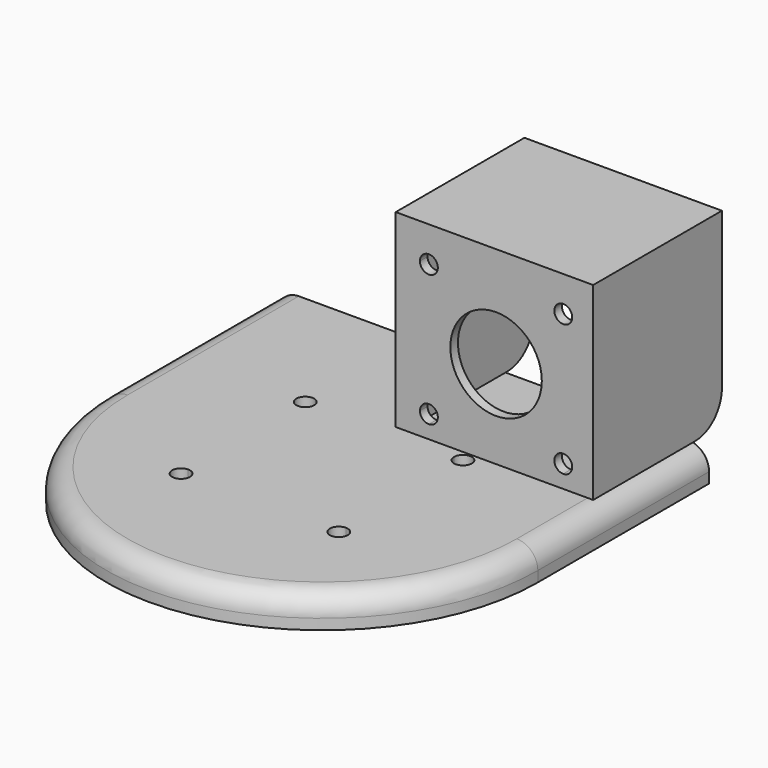
from build123d import *

# Parameters (mm, degrees)
F1_DEPTH = 7.62
F2_R     = 5.08
F4_DEPTH = 45.72
F6_DEPTH = 25.4
F7_W     = 43.18
F7_H     = 3.175
F8_DEPTH = 36.576
F9_R     = 8.0330542074


with BuildPart() as f1:
    # F0 (on Top) → F1 (new body)
    with BuildSketch(Plane.XY):
        with BuildLine():
            ThreePointArc((-19.05, 16.5915609938), (-20.5766435406, 20.2772045344), (-16.891, 18.7505609938))
            Line((-16.891, 18.7505609938), (16.891, 18.7505609938))
            ThreePointArc((16.891, 18.7505609938), (19.05, 20.9095609938), (21.209, 18.7505609938))
            ThreePointArc((21.209, 18.7505609938), (20.5766435406, 17.2239174532), (19.05, 16.5915609938))
            Line((19.05, 16.5915609938), (19.05, 0))
            Line((19.05, 0), (52.1362312138, 0))
            Line((52.1362312138, 0), (52.1362312138, 51.7165437341))
            Line((52.1362312138, 51.7165437341), (-52.0691390008, 51.7165437341))
            Line((-52.0691390008, 51.7165437341), (-52.0691390008, 0))
            Line((-52.0691390008, 0), (-19.05, 0))
            Line((-19.05, 0), (-19.05, 16.5915609938))
        make_face()
        with BuildLine():
            Line((-19.05, -16.5915609938), (-19.05, 0))
            Line((-19.05, 0), (-52.0691390008, 0))
            ThreePointArc((-52.0691390008, 0), (0.0335461065, -52.1026851073), (52.1362312138, 0))
            Line((52.1362312138, 0), (19.05, 0))
            Line((19.05, 0), (19.05, -16.5915609938))
            ThreePointArc((19.05, -16.5915609938), (20.5766435406, -17.2239174532), (21.209, -18.7505609938))
            ThreePointArc((21.209, -18.7505609938), (19.3524205753, -20.8882753797), (16.975722746, -19.3494390062))
            Line((16.975722746, -19.3494390062), (-16.975722746, -19.3494390062))
            ThreePointArc((-16.975722746, -19.3494390062), (-20.775435978, -20.0483096928), (-19.05, -16.5915609938))
        make_face()
        with BuildLine():
            Line((16.891, 18.7505609938), (-16.891, 18.7505609938))
            ThreePointArc((-16.891, 18.7505609938), (-17.5233564594, 17.2239174532), (-19.05, 16.5915609938))
            Line((-19.05, 16.5915609938), (-19.05, 0))
            Line((-19.05, 0), (19.05, 0))
            Line((19.05, 0), (19.05, 16.5915609938))
            ThreePointArc((19.05, 16.5915609938), (17.5233564594, 17.2239174532), (16.891, 18.7505609938))
        make_face()
        with BuildLine():
            Line((19.05, 0), (-19.05, 0))
            Line((-19.05, 0), (-19.05, -16.5915609938))
            ThreePointArc((-19.05, -16.5915609938), (-17.5233564594, -17.2239174532), (-16.891, -18.7505609938))
            ThreePointArc((-16.891, -18.7505609938), (-16.9122856141, -19.0529815691), (-16.975722746, -19.3494390062))
            Line((-16.975722746, -19.3494390062), (16.975722746, -19.3494390062))
            ThreePointArc((16.975722746, -19.3494390062), (17.324564022, -17.4528122949), (19.05, -16.5915609938))
            Line((19.05, -16.5915609938), (19.05, 0))
        make_face()
    extrude(amount=F1_DEPTH)

    # F2
    f2_edges = [f1.edges().sort_by_distance(p)[0] for p in [
        (0.033546, -52.102685, 7.62),
    ]]
    fillet(f2_edges, radius=F2_R)

    # F3 (on face) → F4 (join)
    with BuildSketch(Plane.XY.offset(7.62)):
        Polygon((46.1304020137, 23.6876853067), (2.9504020137, 23.6876853067), (2.9504020137, 57.9776853067), (2.9504020137, 60.2722298354), (0.6876643932, 60.2722298354), (0.6876643932, 21.3931407779), (48.3931396341, 21.3931407779), (48.3931396341, 60.2722298354), (46.1304020137, 60.2722298354), (46.1304020137, 57.9776853067), align=None)
    extrude(amount=F4_DEPTH)

    # F5 (on face) → F6 (cut)
    with BuildSketch(Plane.XZ.offset(-21.3931407779)):
        with BuildLine():
            ThreePointArc((6.5425638128, 44.8215786717), (8.7015638128, 42.6625786717), (10.8605638128, 44.8215786717))
            ThreePointArc((10.8605638128, 44.8215786717), (10.2282073534, 46.3482222123), (8.7015638128, 46.9805786717))
            ThreePointArc((8.7015638128, 46.9805786717), (7.1749202722, 46.3482222123), (6.5425638128, 44.8215786717))
        make_face()
        with BuildLine():
            ThreePointArc((24.9343014333, 39.9498267307), (17.1214786079, 21.0880039054), (35.9833014333, 28.9008267307))
            ThreePointArc((35.9833014333, 28.9008267307), (32.7471242586, 36.7136495561), (24.9343014333, 39.9498267307))
        make_face()
        with BuildLine():
            ThreePointArc((41.1670390537, 46.9805786717), (39.6403955132, 43.2949351311), (43.3260390537, 44.8215786717))
            ThreePointArc((43.3260390537, 44.8215786717), (42.6936825943, 46.3482222123), (41.1670390537, 46.9805786717))
        make_face()
        with BuildLine():
            ThreePointArc((41.1670390537, 10.8210747898), (42.6936825943, 11.4534312492), (43.3260390537, 12.9800747898))
            ThreePointArc((43.3260390537, 12.9800747898), (39.6403955132, 14.5067183303), (41.1670390537, 10.8210747898))
        make_face()
        with BuildLine():
            ThreePointArc((6.5425638128, 12.9800747898), (7.1749202722, 11.4534312492), (8.7015638128, 10.8210747898))
            ThreePointArc((8.7015638128, 10.8210747898), (10.2282073534, 11.4534312492), (10.8605638128, 12.9800747898))
            ThreePointArc((10.8605638128, 12.9800747898), (8.7015638128, 15.1390747898), (6.5425638128, 12.9800747898))
        make_face()
    extrude(amount=-F6_DEPTH, mode=Mode.SUBTRACT)

    # F7 (on face) → F8 (join)
    with BuildSketch(Plane(origin=(0, 23.6876853067, 0), x_dir=(-1, 0, 0), z_dir=(0, 1, 0))):
        with Locations((-24.5404020137, 51.7525)):
            Rectangle(F7_W, F7_H)
    extrude(amount=F8_DEPTH)

    # F9
    f9_edges = [f1.edges().sort_by_distance(p)[0] for p in [
        (47.261771, 60.27223, 7.62),
        (1.819033, 60.27223, 7.62),
    ]]
    fillet(f9_edges, radius=F9_R)


solid = f1.part
